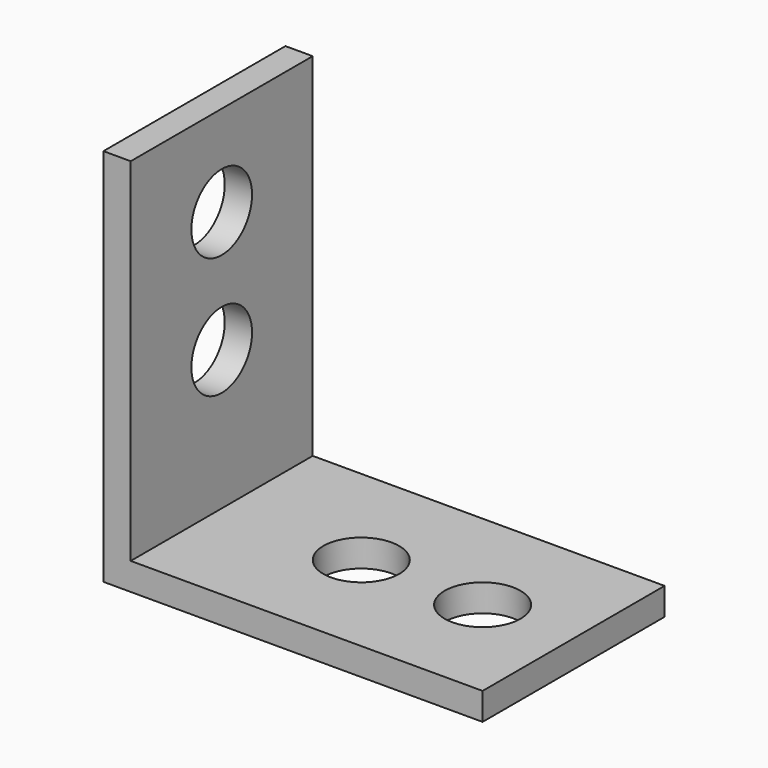
from build123d import *

# Parameters (mm, degrees)
F0_W           = 1.8
F0_H           = 1.7999967287
F0_W_2         = 23.2
F0_H_2         = 23.2000032713
F1_DEPTH       = 15
F4_D           = 5
F4_DEPTH       = 1.8
F4_TIP         = 1.5021515476
F4_ON_F3_D     = 5
F4_ON_F3_DEPTH = 1.8
F4_ON_F3_TIP   = 1.5021515476


with BuildPart() as f1:
    # F0 (on Front) → F1 (new body)
    with BuildSketch(Plane.XZ):
        with Locations((-5.1324295796, 0.8999983644)):
            Rectangle(F0_W, F0_H)
        with Locations((7.3675704204, 0.8999983644)):
            Rectangle(F0_W_2, F0_H)
        with Locations((-5.1324295796, 13.3999983644)):
            Rectangle(F0_W, F0_H_2)
    extrude(amount=F1_DEPTH)

    # F4
    with Locations(Plane(origin=(-6.0324295796, 0, 0), x_dir=(0, -1, 0), z_dir=(-1, 0, 0))):
        with Locations((7.5, 19), (7.5, 11)):
            Hole(F4_D / 2, depth=F4_DEPTH)
            with Locations((0, 0, -(F4_DEPTH + F4_TIP / 2))):  # 118° drill point
                Cone(0, F4_D / 2, F4_TIP, mode=Mode.SUBTRACT)

    # F4 on F3
    with Locations(Plane(origin=(0, 0, 0), x_dir=(1, 0, 0), z_dir=(0, 0, -1))):
        with Locations((4.9675704204, 7.5), (12.9675704204, 7.5)):
            Hole(F4_ON_F3_D / 2, depth=F4_ON_F3_DEPTH)
            with Locations((0, 0, -(F4_ON_F3_DEPTH + F4_ON_F3_TIP / 2))):  # 118° drill point
                Cone(0, F4_ON_F3_D / 2, F4_ON_F3_TIP, mode=Mode.SUBTRACT)


solid = f1.part
